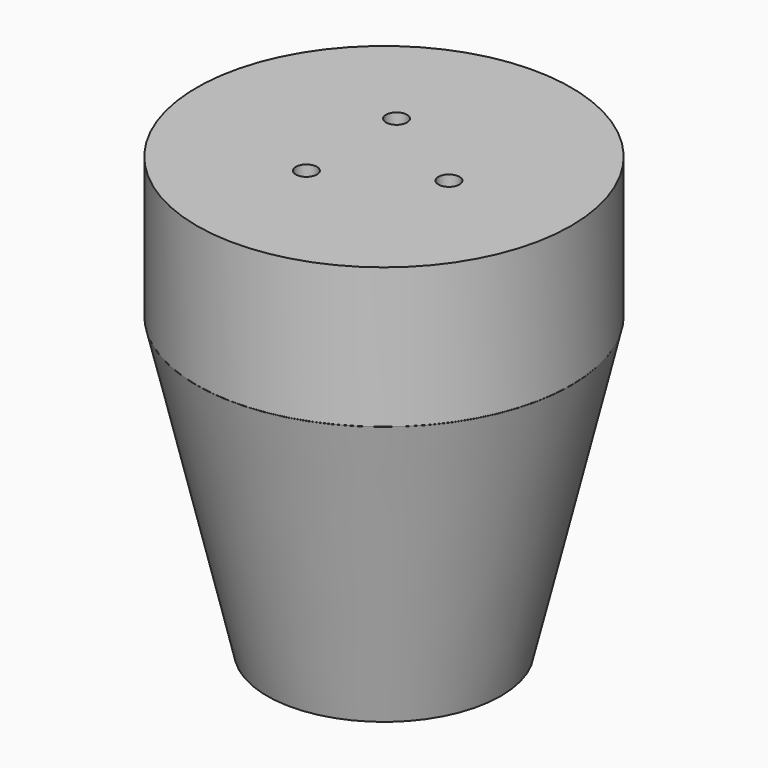
from build123d import *

# Parameters (mm, degrees)
CYLINDER003_R               = 0.17145
CYLINDER003_DEPTH           = 7.12
COMPOUND_PLACEMENT_ANGLE    = 120
CYLINDER002_R               = 0.17145
CYLINDER002_DEPTH           = 7.12
COMPOUND001_PLACEMENT_ANGLE = 240
CYLINDER001_R               = 0.17145
CYLINDER001_DEPTH           = 7.12
CYLINDER_R                  = 3.05
CYLINDER_DEPTH              = 2.286


with BuildPart() as compound:
    # Cylinder003 → Cylinder003 (new body)
    with BuildSketch(Plane(origin=(1.06, 0, 0), x_dir=(1, 0, 0), z_dir=(0, 0, 1))):
        Circle(CYLINDER003_R)
    extrude(amount=CYLINDER003_DEPTH)


with BuildPart() as compound_1:
    # Compound placement: moved
    add(compound.part.rotate(Axis((0, 0, 0), (0, 0, 1)), COMPOUND_PLACEMENT_ANGLE))


with BuildPart() as compound001:
    # Cylinder002 → Cylinder002 (new body)
    with BuildSketch(Plane(origin=(1.06, 0, 0), x_dir=(1, 0, 0), z_dir=(0, 0, 1))):
        Circle(CYLINDER002_R)
    extrude(amount=CYLINDER002_DEPTH)


with BuildPart() as compound001_1:
    # Compound001 placement: moved
    add(compound001.part.rotate(Axis((0, 0, 0), (0, 0, 1)), COMPOUND001_PLACEMENT_ANGLE))


with BuildPart() as fibers:
    # Cylinder001 → Cylinder001 (new body)
    with BuildSketch(Plane(origin=(1.058333, 0, 0), x_dir=(1, 0, 0), z_dir=(0, 0, 1))):
        Circle(CYLINDER001_R)
    extrude(amount=CYLINDER001_DEPTH)

    # Fusion001: union Compound, Compound001
    add(compound_1.part)
    add(compound001_1.part)


with BuildPart() as cylinder:
    # Cylinder → Cylinder (new body)
    with BuildSketch(Plane.XY.offset(4.83)):
        Circle(CYLINDER_R)
    extrude(amount=CYLINDER_DEPTH)


with BuildPart() as obj1:
    # Cone → Cone (revolve)
    with BuildSketch(Plane.XZ):
        Polygon((0, 0), (1.905, 0), (3.048, 4.826), (0, 4.826), align=None)
    revolve(axis=Axis((0, 0, 0), (0, 0, 1)))

    # Fusion: union Cylinder
    add(cylinder.part)

    # Cut: cut Fibers
    add(fibers.part, mode=Mode.SUBTRACT)


solid = obj1.part
